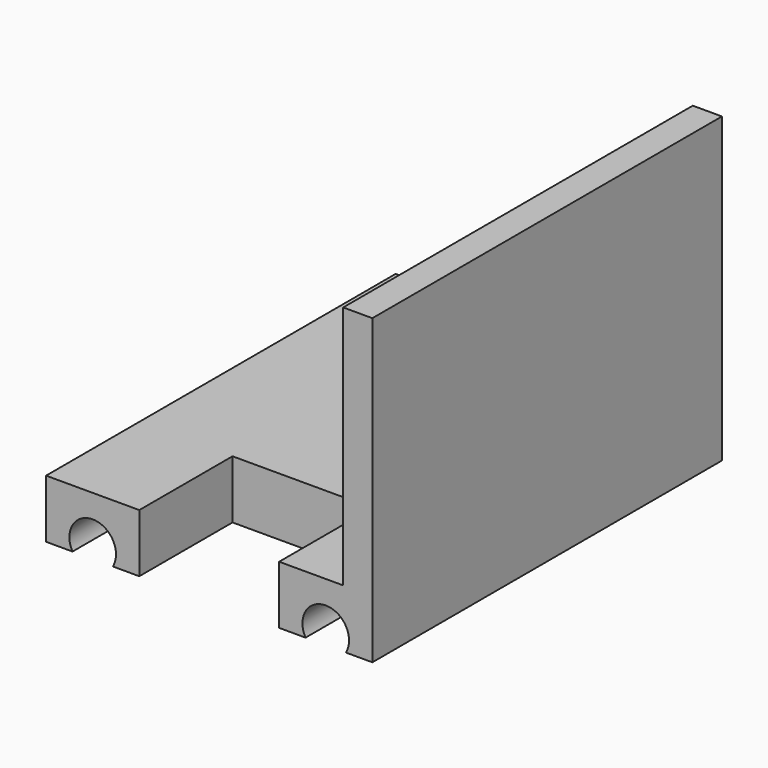
from build123d import *

# Parameters (mm, degrees)
F0_W     = 56
F0_H     = 75
F0_R     = 1.8
F0_R_2   = 4.5
F1_DEPTH = 10
F3_DEPTH = 75.001
F4_W     = 24
F4_H     = 20
F5_DEPTH = 25
F6_W     = 5
F6_H     = 75
F7_DEPTH = 42


with BuildPart() as f1:
    # F0 (on Top) → F1 (new body)
    with BuildSketch(Plane.XY):
        Rectangle(F0_W, F0_H)
        with Locations((-5.6568542495, 3.8431457505)):
            Circle(F0_R, mode=Mode.SUBTRACT)
        with Locations((-5.6568542495, 15.1568542495)):
            Circle(F0_R, mode=Mode.SUBTRACT)
        with Locations((5.6568542495, 3.8431457505)):
            Circle(F0_R, mode=Mode.SUBTRACT)
        with Locations((0, 9.5)):
            Circle(F0_R_2, mode=Mode.SUBTRACT)
        with Locations((5.6568542495, 15.1568542495)):
            Circle(F0_R, mode=Mode.SUBTRACT)
    extrude(amount=F1_DEPTH)

    # F2 (on face) → F3 (cut, through all)
    with BuildSketch(Plane.XZ.offset(37.5)):
        with BuildLine():
            ThreePointArc((-16.5358983849, 0), (-16.1362966948, 0.9647238196), (-16, 2))
            ThreePointArc((-16, 2), (-21.0352761804, 5.8637033052), (-23.4641016151, 0))
            Line((-23.4641016151, 0), (-16.5358983849, 0))
        make_face()
        with BuildLine():
            ThreePointArc((24, 2), (18.9647238196, 5.8637033052), (16.5358983849, 0))
            Line((16.5358983849, 0), (23.4641016151, 0))
            ThreePointArc((23.4641016151, 0), (23.8637033052, 0.9647238196), (24, 2))
        make_face()
    extrude(amount=-F3_DEPTH, mode=Mode.SUBTRACT)

    # F4 (on face) → F5 (cut)
    with BuildSketch(Plane.XY.offset(10)):
        with Locations((0, -27.5)):
            Rectangle(F4_W, F4_H)
    extrude(amount=-F5_DEPTH, mode=Mode.SUBTRACT)

    # F6 (on face) → F7 (join)
    with BuildSketch(Plane.XY.offset(10)):
        with Locations((25.5, 0)):
            Rectangle(F6_W, F6_H)
    extrude(amount=F7_DEPTH)


solid = f1.part
